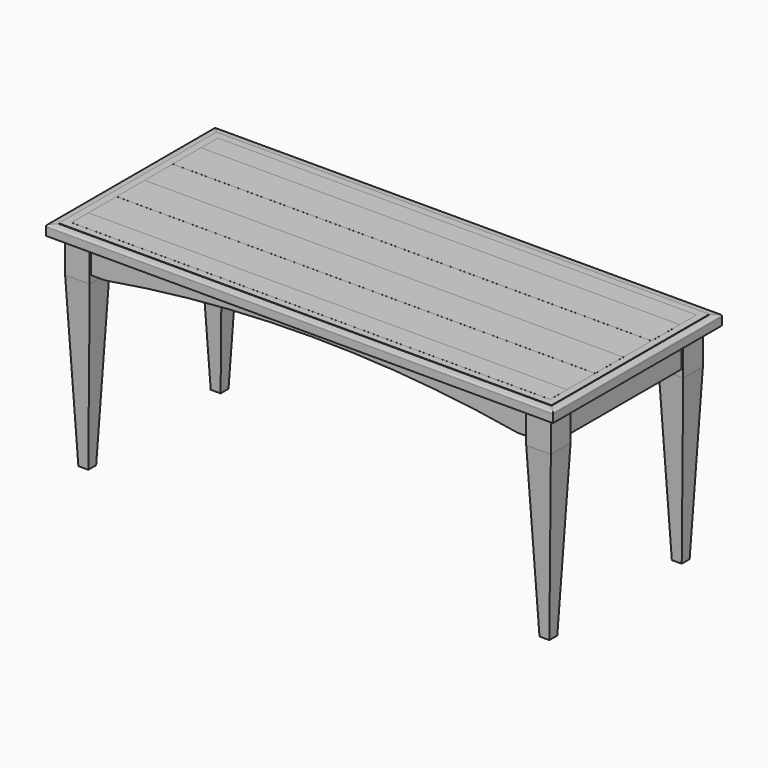
from build123d import *

# Parameters (mm, degrees)
F0_W           = 1727.2
F0_H           = 76.2
F1_DEPTH       = 38.1
F0_H_2         = 127
F2_DEPTH       = 38.227
F5_W           = 88.9
F5_H           = 88.9
F6_DEPTH       = 127
F7_W           = 1739.9
F7_H           = 673.1
F7_W_2         = 1701.8
F7_H_2         = 635
F8_DEPTH       = 101.6
F9_W           = 88.9
F9_H           = 88.9
F10_DEPTH      = 609.6
F10_TAPER      = 2.5
F11_W          = 1488.2914853928
F11_H          = 198.9219101906
F12_DEPTH      = 914.4
F12_DEPTH_BACK = 914.4


with BuildPart() as f1:
    # F0 (on Top) → F1 (new body)
    with BuildSketch(Plane.XY):
        with Locations((0, 292.1)):
            Rectangle(F0_W, F0_H)
    extrude(amount=F1_DEPTH)


with BuildPart() as f1b:
    # F0 (on Top) → F1, piece 2 (new body)
    with BuildSketch(Plane.XY):
        with Locations((0, 63.5)):
            Rectangle(F0_W, F0_H_2)
    extrude(amount=F1_DEPTH)


with BuildPart() as f1c:
    # F0 (on Top) → F1, piece 3 (new body)
    with BuildSketch(Plane.XY):
        with Locations((0, -190.5)):
            Rectangle(F0_W, F0_H_2)
    extrude(amount=F1_DEPTH)


with BuildPart() as f2:
    # F0 (on Top) → F2 (new body)
    with BuildSketch(Plane.XY):
        with Locations((0, 190.5)):
            Rectangle(F0_W, F0_H_2)
    extrude(amount=F2_DEPTH)


with BuildPart() as f2b:
    # F0 (on Top) → F2, piece 2 (new body)
    with BuildSketch(Plane.XY):
        with Locations((0, -63.5)):
            Rectangle(F0_W, F0_H_2)
    extrude(amount=F2_DEPTH)


with BuildPart() as f2c:
    # F0 (on Top) → F2, piece 3 (new body)
    with BuildSketch(Plane.XY):
        with Locations((0, -292.1)):
            Rectangle(F0_W, F0_H)
    extrude(amount=F2_DEPTH)


with BuildPart() as f4:
    # F4: sweep along a path in F0
    with BuildLine(Plane.XY) as f4_path:
        Line((-863.6, -330.2), (863.6, -330.2))
        Line((863.6, -330.2), (863.6, 330.2))
        Line((863.6, 330.2), (-863.6, 330.2))
        Line((-863.6, 330.2), (-863.6, -330.2))
    # F3 (on Right) → F4 (sweep)
    with BuildSketch(Plane.YZ):
        with BuildLine():
            Line((-381, 0), (-330.2, 0))
            Line((-330.2, 0), (-330.2, 38.1))
            Line((-330.2, 38.1), (-355.6, 38.1))
            Line((-355.6, 38.1), (-355.6, 36.5125))
            add(Edge.make_bspline(
                [(-355.6, 36.5125), (-360.7839997933, 36.5125), (-379.2794668616, 35.9099371042), (-381, 33.9002396899), (-381, 28.575)],
                knots=[0, 0, 0, 0, 0.6304609347, 1, 1, 1, 1], degree=3))
            Line((-381, 28.575), (-381, 0))
        make_face()
    sweep(path=f4_path.line, transition=Transition.RIGHT)


with BuildPart() as f6:
    # F5 (on Top) → F6 (new body)
    with BuildSketch(Plane.XY):
        with Locations((-831.85, -298.45)):
            Rectangle(F5_W, F5_H)
    extrude(amount=-F6_DEPTH)


with BuildPart() as f6b:
    # F5 (on Top) → F6, piece 2 (new body)
    with BuildSketch(Plane.XY):
        with Locations((831.85, -298.45)):
            Rectangle(F5_W, F5_H)
    extrude(amount=-F6_DEPTH)


with BuildPart() as f6c:
    # F5 (on Top) → F6, piece 3 (new body)
    with BuildSketch(Plane.XY):
        with Locations((831.85, 298.45)):
            Rectangle(F5_W, F5_H)
    extrude(amount=-F6_DEPTH)


with BuildPart() as f6d:
    # F5 (on Top) → F6, piece 4 (new body)
    with BuildSketch(Plane.XY):
        with Locations((-831.85, 298.45)):
            Rectangle(F5_W, F5_H)
    extrude(amount=-F6_DEPTH)


with BuildPart() as f8:
    # F7 (on Top) → F8 (new body)
    with BuildSketch(Plane.XY):
        Rectangle(F7_W, F7_H)
        Rectangle(F7_W_2, F7_H_2, mode=Mode.SUBTRACT)
    extrude(amount=-F8_DEPTH)

    # F11 (on face) → F12 (cut, two sides)
    with BuildSketch(Plane.XZ.offset(336.55)) as f12_sk:
        with BuildLine():
            Line((-736.6, -101.6), (751.6914853928, -101.6))
            ThreePointArc((751.6914853928, -101.6), (7.5457426964, -38.093517317), (-736.6, -101.6))
        make_face()
        with Locations((7.5457426964, -201.0609550953)):
            Rectangle(F11_W, F11_H)
    extrude(amount=-F12_DEPTH, mode=Mode.SUBTRACT)
    extrude(f12_sk.sketch, amount=F12_DEPTH_BACK, mode=Mode.SUBTRACT)


with BuildPart() as f10:
    # F9 (on face) → F10 (new body)
    with BuildSketch(Plane(origin=(0, 0, -127), x_dir=(1, 0, 0), z_dir=(0, 0, -1))):
        with Locations((-831.85, 298.45)):
            Rectangle(F9_W, F9_H)
    extrude(amount=F10_DEPTH, taper=F10_TAPER)


with BuildPart() as f10b:
    # F9 (on face) → F10, piece 2 (new body)
    with BuildSketch(Plane(origin=(0, 0, -127), x_dir=(1, 0, 0), z_dir=(0, 0, -1))):
        with Locations((831.85, 298.45)):
            Rectangle(F9_W, F9_H)
    extrude(amount=F10_DEPTH, taper=F10_TAPER)


with BuildPart() as f10c:
    # F9 (on face) → F10, piece 3 (new body)
    with BuildSketch(Plane(origin=(0, 0, -127), x_dir=(1, 0, 0), z_dir=(0, 0, -1))):
        with Locations((831.85, -298.45)):
            Rectangle(F9_W, F9_H)
    extrude(amount=F10_DEPTH, taper=F10_TAPER)


with BuildPart() as f10d:
    # F9 (on face) → F10, piece 4 (new body)
    with BuildSketch(Plane(origin=(0, 0, -127), x_dir=(1, 0, 0), z_dir=(0, 0, -1))):
        with Locations((-831.85, -298.45)):
            Rectangle(F9_W, F9_H)
    extrude(amount=F10_DEPTH, taper=F10_TAPER)


solid = Compound([f1.part, f1b.part, f1c.part, f2.part, f2b.part, f2c.part, f4.part, f6.part, f6b.part, f6c.part, f6d.part, f8.part, f10.part, f10b.part, f10c.part, f10d.part])
